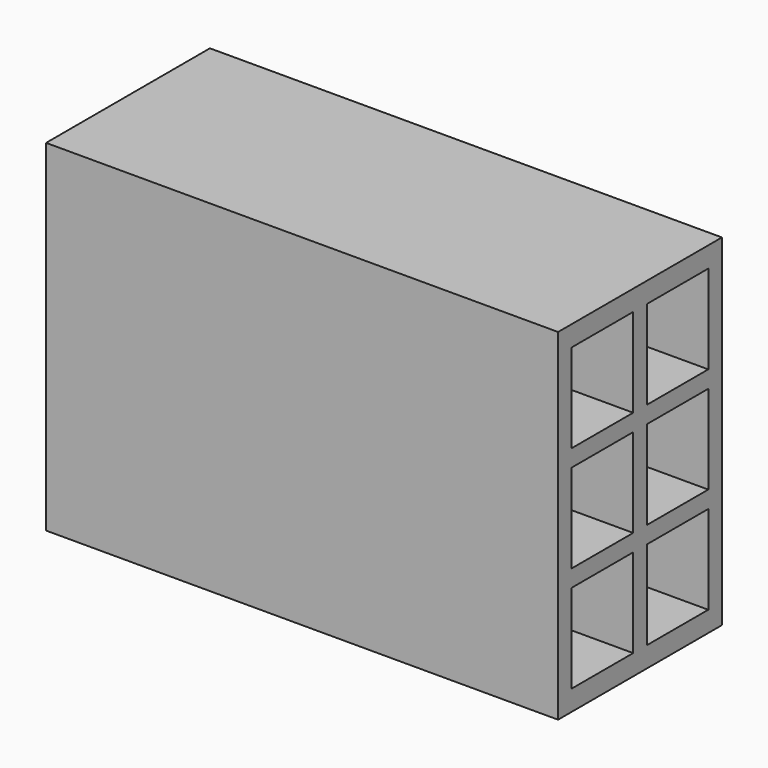
from build123d import *

# Parameters (mm, degrees)
F0_W     = 300
F0_H     = 200
F1_DEPTH = 60
F2_W     = 45
F2_H     = 52
F3_DEPTH = 300


with BuildPart() as f1:
    # F0 (on Front) → F1 (new body, symmetric)
    with BuildSketch(Plane.XZ):
        Rectangle(F0_W, F0_H)
    extrude(amount=F1_DEPTH, both=True)

    # F2 (on face) → F3 (cut, through all)
    with BuildSketch(Plane.YZ.offset(150)):
        with Locations((-27.5, 62)):
            Rectangle(F2_W, F2_H)
        with Locations((-27.5, -62)):
            Rectangle(F2_W, F2_H)
        with Locations((27.5, 62)):
            Rectangle(F2_W, F2_H)
        with Locations((-27.5, 0)):
            Rectangle(F2_W, F2_H)
        with Locations((27.5, 0)):
            Rectangle(F2_W, F2_H)
        with Locations((27.5, -62)):
            Rectangle(F2_W, F2_H)
    extrude(amount=-F3_DEPTH, mode=Mode.SUBTRACT)


solid = f1.part
